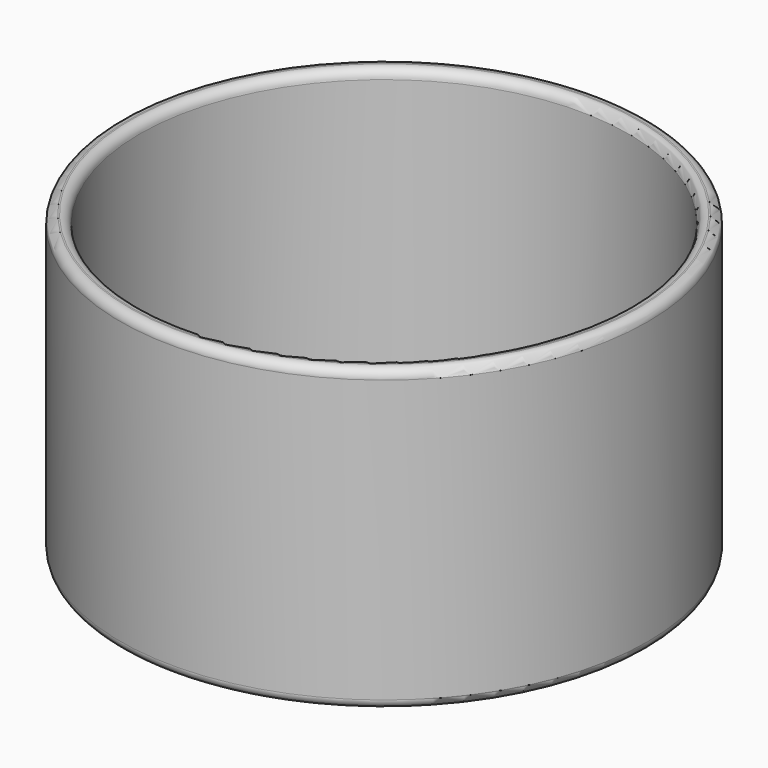
from build123d import *

# Parameters (mm, degrees)
F0_R     = 20.25
F0_R_2   = 18.75
F1_DEPTH = 23
F0_R_3   = 0.75
F2_DEPTH = 2
F3_R     = 0.7
F4_SIZE2 = 1.5
F4_SIZE  = 1.5


with BuildPart() as f1:
    # F0 (on Top) → F1 (new body)
    with BuildSketch(Plane.XY):
        Circle(F0_R)
        Circle(F0_R_2, mode=Mode.SUBTRACT)
    extrude(amount=F1_DEPTH)

    # F0 (on Top) → F2 (join)
    with BuildSketch(Plane.XY):
        Circle(F0_R_2)
        Circle(F0_R_3, mode=Mode.SUBTRACT)
    extrude(amount=F2_DEPTH)

    # F3
    f3_edges = [f1.edges().sort_by_distance(p)[0] for p in [
        (-20.25, 0, 23),
        (-18.75, 0, 23),
        (-20.25, 0, 0),
    ]]
    fillet(f3_edges, radius=F3_R)

    # F4
    f4_edges = [f1.edges().sort_by_distance(p)[0] for p in [
        (-0.75, 0, 0),
    ]]
    chamfer(f4_edges, length=F4_SIZE, length2=F4_SIZE2)


solid = f1.part
